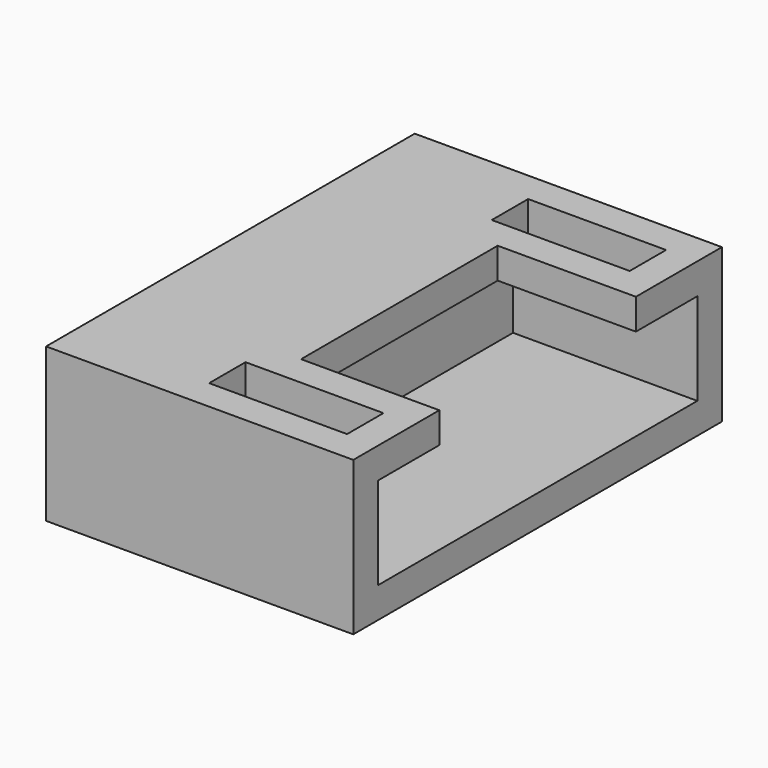
from build123d import *

# Parameters (mm, degrees)
SKETCH096_W     = 15
SKETCH096_H     = 5
PAD040_DEPTH    = 10
SKETCH094_W     = 13
SKETCH094_H     = 3
POCKET035_DEPTH = 6
SKETCH091_W     = 8
SKETCH091_H     = 1
POCKET041_DEPTH = 4.5
SKETCH088_W     = 1.48
SKETCH088_H     = 4.49
POCKET043_DEPTH = 2


with BuildPart() as part:
    # Sketch096 → Pad040 (new body)
    with BuildSketch(Plane.YZ):
        with Locations((0, 2.5)):
            Rectangle(SKETCH096_W, SKETCH096_H)
    extrude(amount=PAD040_DEPTH)

    # Sketch094 (on Face6 of Pad040) → Pocket035 (cut)
    with BuildSketch(Plane.YZ.offset(10)):
        with Locations((0, 2.5)):
            Rectangle(SKETCH094_W, SKETCH094_H)
    extrude(amount=-POCKET035_DEPTH, mode=Mode.SUBTRACT)

    # Sketch091 (on Face5 of Pocket035) → Pocket041 (cut)
    with BuildSketch(Plane.YZ.offset(10)):
        with Locations((0, 4.5)):
            Rectangle(SKETCH091_W, SKETCH091_H)
    extrude(amount=-POCKET041_DEPTH, mode=Mode.SUBTRACT)

    # Sketch088 (on Face6 of Pocket041) → Pocket043 (cut)
    with BuildSketch(Plane(origin=(0, 0, 5), x_dir=(0, -1, 0), z_dir=(0, 0, 1))):
        with Locations((-5.75, 6.745)):
            Rectangle(SKETCH088_W, SKETCH088_H)
        with Locations((5.75, 6.745)):
            Rectangle(SKETCH088_W, SKETCH088_H)
    extrude(amount=-POCKET043_DEPTH, mode=Mode.SUBTRACT)


solid = part.part
